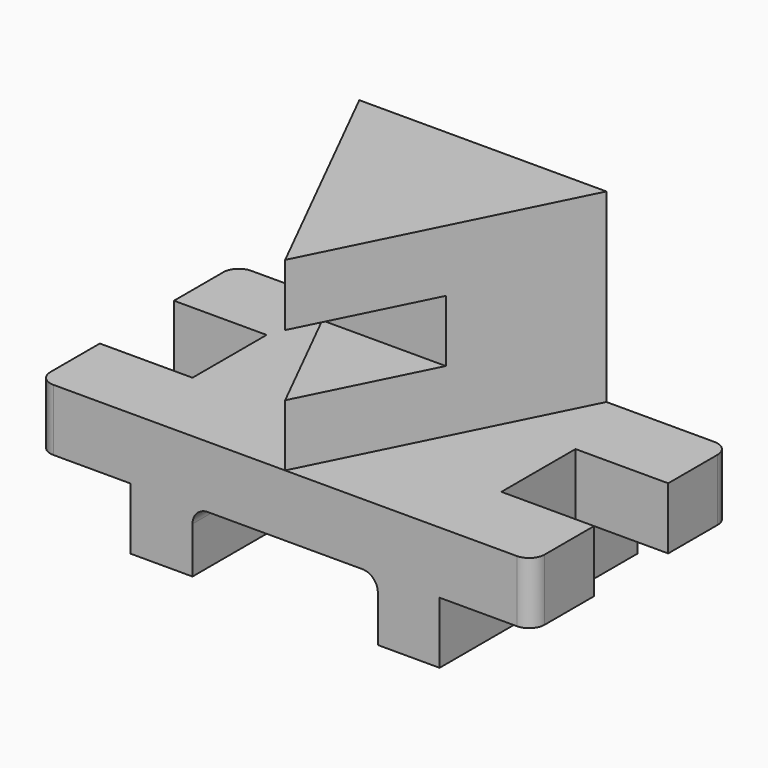
from build123d import *

# Parameters (mm, degrees)
F1_DEPTH  = 50.8
F2_R      = 6.35
F3_W      = 38.1
F3_H      = 25.4
F4_DEPTH  = 38.1
F5_W      = 38.1
F5_H      = 25.4
F6_DEPTH  = 38.1
F7_W      = 101.6
F7_H      = 101.6
F8_DEPTH  = 76.2
F9_W      = 50.8
F9_H      = 25.4
F10_DEPTH = 152.401
F12_DEPTH = 76.2
F14_DEPTH = 76.2
F15_R     = 6.35


with BuildPart() as f1:
    # F0 (on Front) → F1 (new body, symmetric)
    with BuildSketch(Plane.XZ):
        Polygon((0, 25.4), (0, 0), (25.4, 0), (25.4, 25.4), (101.6, 25.4), (101.6, 0), (127, 0), (127, 25.4), (165.1, 25.4), (165.1, 50.8), (-38.1, 50.8), (-38.1, 25.4), align=None)
    extrude(amount=F1_DEPTH, both=True)

    # F2
    f2_edges = [f1.edges().sort_by_distance(p)[0] for p in [
        (-38.1, -50.8, 38.1),
        (165.1, -50.8, 38.1),
        (165.1, 50.8, 38.1),
        (-38.1, 50.8, 38.1),
    ]]
    fillet(f2_edges, radius=F2_R)

    # F3 (on face) → F4 (cut, through all)
    with BuildSketch(Plane.YZ.offset(165.1)):
        with Locations((0, 38.1)):
            Rectangle(F3_W, F3_H)
    extrude(amount=-F4_DEPTH, mode=Mode.SUBTRACT)

    # F5 (on face) → F6 (cut, through all)
    with BuildSketch(Plane(origin=(-38.1, 0, 0), x_dir=(0, -1, 0), z_dir=(-1, 0, 0))):
        with Locations((0, 38.1)):
            Rectangle(F5_W, F5_H)
    extrude(amount=-F6_DEPTH, mode=Mode.SUBTRACT)

    # F7 (on face) → F8 (join)
    with BuildSketch(Plane.XY.offset(50.8)):
        with Locations((63.5, 0)):
            Rectangle(F7_W, F7_H)
    extrude(amount=F8_DEPTH)

    # F9 (on face) → F10 (cut, through all)
    with BuildSketch(Plane.YZ.offset(114.3)):
        with Locations((-25.4, 88.9)):
            Rectangle(F9_W, F9_H)
    extrude(amount=-F10_DEPTH, mode=Mode.SUBTRACT)

    # F11 (on face) → F12 (cut, through all)
    with BuildSketch(Plane.XY.offset(127)):
        Polygon((63.5, -50.8), (12.7, 50.8), (12.7, -50.8), align=None)
    extrude(amount=-F12_DEPTH, mode=Mode.SUBTRACT)

    # F13 (on face) → F14 (cut, through all)
    with BuildSketch(Plane.XY.offset(127)):
        Polygon((114.3, 50.8), (63.5, -50.8), (114.3, -50.8), align=None)
    extrude(amount=-F14_DEPTH, mode=Mode.SUBTRACT)

    # F15
    f15_edges = [f1.edges().sort_by_distance(p)[0] for p in [
        (25.4, 0, 25.4),
        (101.6, 0, 25.4),
    ]]
    fillet(f15_edges, radius=F15_R)


solid = f1.part
